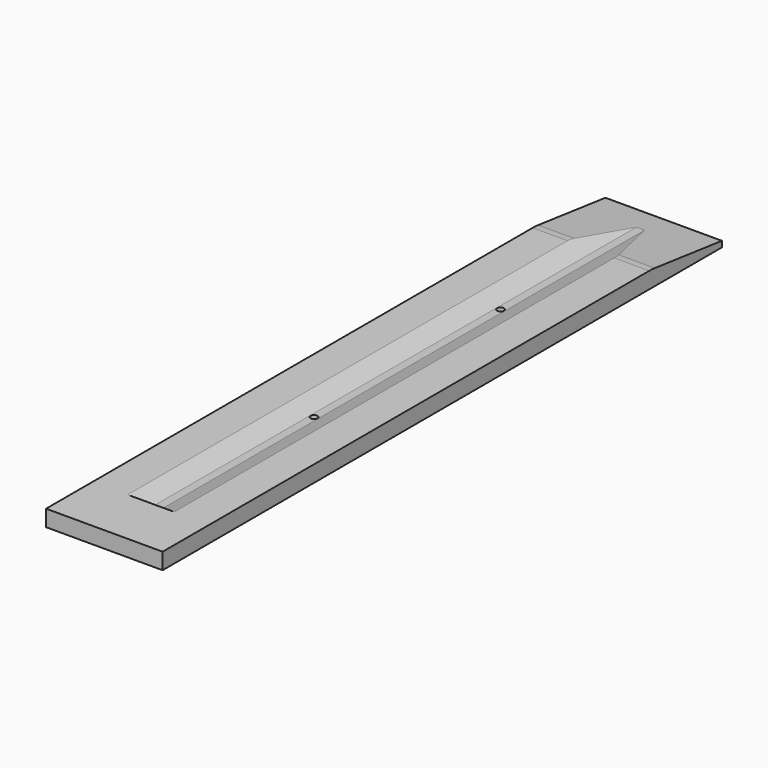
from build123d import *

# Parameters (mm, degrees)
F1_DEPTH = 20
F3_DEPTH = 120
F6_R     = 0.6
F7_DEPTH = 25
F8_R     = 10


with BuildPart() as f1:
    # F0 (on Right) → F1 (new body)
    with BuildSketch(Plane.YZ):
        Polygon((0, 2.8), (0, 0), (120, 0), (120, 1), (105, 2.8), align=None)
    extrude(amount=F1_DEPTH)


with BuildPart() as f3:
    # F2 (on face) → F3 (new body)
    with BuildSketch(Plane.XZ):
        Polygon((6, 2.8), (9.296973, 1.6), (10.703027, 1.6), (14, 2.8), align=None)
    extrude(amount=-F3_DEPTH)


with BuildPart() as f3_1:
    # F4: moved
    add(f3.part.moved(Location((0, 10, 0))))


with BuildPart() as f1_1:
    add(f1.part)

    # F5: cut F3
    add(f3_1.part, mode=Mode.SUBTRACT)

    # F6 (on face) → F7 (cut)
    with BuildSketch(Plane.XY.offset(1.6)):
        with Locations((10, 85)):
            Circle(F6_R)
        with Locations((10, 45)):
            Circle(F6_R)
    extrude(amount=-F7_DEPTH, mode=Mode.SUBTRACT)

    # F8
    f8_edges = [f1_1.edges().sort_by_distance(p)[0] for p in [
        (17, 105, 2.8),
        (3, 105, 2.8),
    ]]
    fillet(f8_edges, radius=F8_R)


solid = f1_1.part
